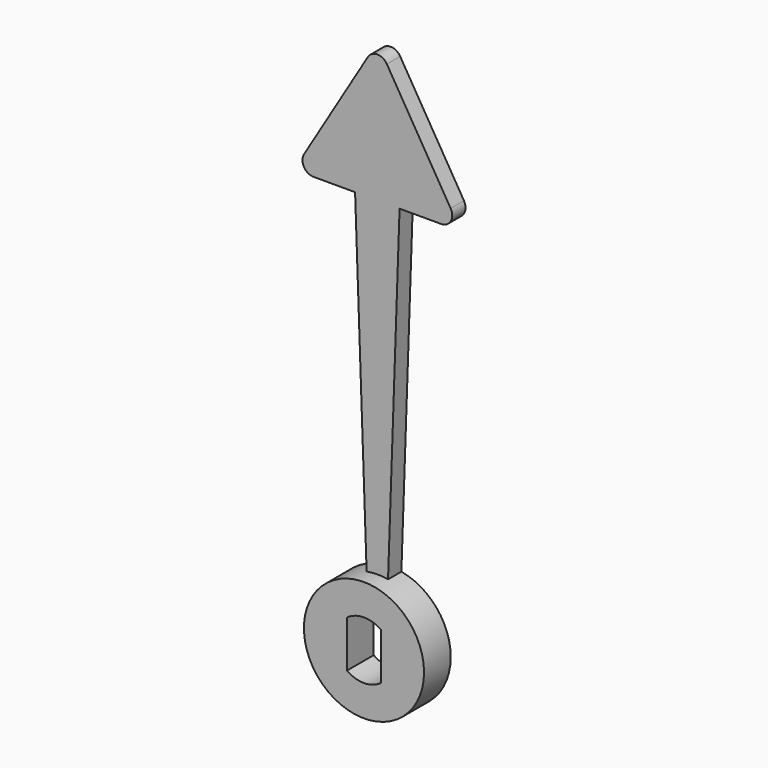
from build123d import *

# Parameters (mm, degrees)
F0_R     = 5.4
F1_DEPTH = 1.5
F3_DEPTH = 1.5
F5_DEPTH = 1.5
F6_R     = 1
F7_R     = 1
F8_R     = 1


with BuildPart() as f1:
    # F0 (on Front) → F1 (new body, symmetric)
    with BuildSketch(Plane.XZ):
        Circle(F0_R)
        with BuildLine():
            ThreePointArc((1.525, 2.1057955741), (2.3157072354, 1.1821590418), (2.6, 0))
            ThreePointArc((2.6, 0), (2.3157072354, -1.1821590418), (1.525, -2.1057955741))
            ThreePointArc((1.525, -2.1057955741), (0, -2.6), (-1.525, -2.1057955741))
            ThreePointArc((-1.525, -2.1057955741), (-2.6, 0), (-1.525, 2.1057955741))
            ThreePointArc((-1.525, 2.1057955741), (0, 2.6), (1.525, 2.1057955741))
        make_face(mode=Mode.SUBTRACT)
        with BuildLine():
            Line((-1.525, -2.1057955741), (-1.525, 2.1057955741))
            ThreePointArc((-1.525, 2.1057955741), (-2.6, 0), (-1.525, -2.1057955741))
        make_face()
        with BuildLine():
            ThreePointArc((1.525, -2.1057955741), (2.3157072354, -1.1821590418), (2.6, 0))
            ThreePointArc((2.6, 0), (2.3157072354, 1.1821590418), (1.525, 2.1057955741))
            Line((1.525, 2.1057955741), (1.525, -2.1057955741))
        make_face()
    extrude(amount=F1_DEPTH, both=True)

    # F2 (on Front) → F3 (join, through all)
    with BuildSketch(Plane.XZ):
        Polygon((-0.9291996635, 4.3362903498), (0, 4.3362903498), (0, 35), (-2, 35), align=None)
        Polygon((0, 35), (0, 4.3362903498), (0.9291996635, 4.3362903498), (2, 35), align=None)
    extrude(amount=-F3_DEPTH)

    # F4 (on Front) → F5 (join, through all)
    with BuildSketch(Plane.XZ):
        Polygon((0, 35), (0, 47.5), (-7.5, 35), align=None)
        Polygon((7.5, 35), (0, 47.5), (0, 35), align=None)
    extrude(amount=-F5_DEPTH)

    # F6
    f6_edges = [f1.edges().sort_by_distance(p)[0] for p in [
        (7.5, 0.75, 35),
    ]]
    fillet(f6_edges, radius=F6_R)

    # F7
    f7_edges = [f1.edges().sort_by_distance(p)[0] for p in [
        (0, 0.75, 47.5),
    ]]
    fillet(f7_edges, radius=F7_R)

    # F8
    f8_edges = [f1.edges().sort_by_distance(p)[0] for p in [
        (-7.5, 0.75, 35),
    ]]
    fillet(f8_edges, radius=F8_R)


solid = f1.part
